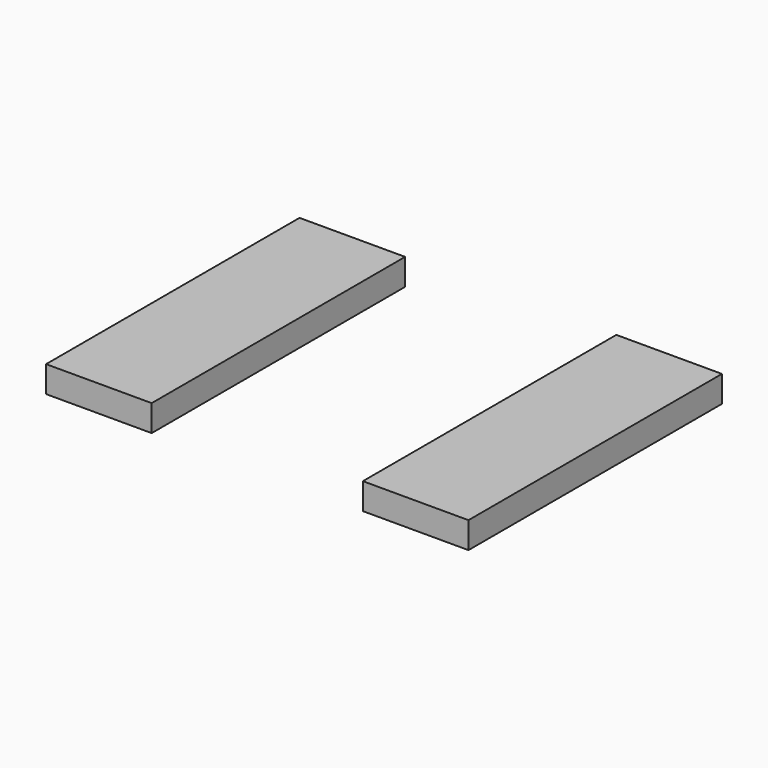
from build123d import *

# Parameters (mm, degrees)
F0_W     = 25.4
F0_H     = 76.2
F1_DEPTH = 6.35


with BuildPart() as f1:
    # F0 (on Top) → F1 (new body)
    with BuildSketch(Plane.XY):
        with Locations((-38.1, 0)):
            Rectangle(F0_W, F0_H)
        with Locations((38.1, 0)):
            Rectangle(F0_W, F0_H)
    extrude(amount=-F1_DEPTH)


solid = f1.part
